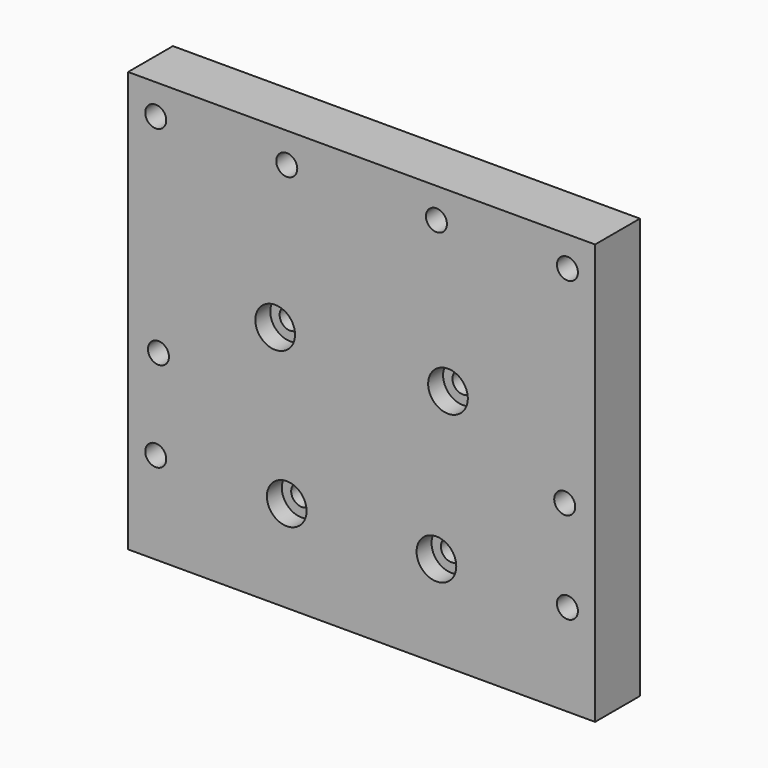
from build123d import *

# Parameters (mm, degrees)
SKETCH_W        = 100
SKETCH_H        = 90
PAD_DEPTH       = 12
SKETCH001_R     = 2.25
POCKET_DEPTH    = 12.001
SKETCH002_R     = 4.25
POCKET001_DEPTH = 4


with BuildPart() as part:
    # Sketch → Pad (new body)
    with BuildSketch(Plane.XZ):
        Rectangle(SKETCH_W, SKETCH_H)
    extrude(amount=PAD_DEPTH)

    # Sketch001 → Pocket (cut, through all)
    with BuildSketch(Plane.XZ.offset(12)):
        with Locations((-44.075, -25.33)):
            Circle(SKETCH001_R)
        with Locations((-43.5, -5.85)):
            Circle(SKETCH001_R)
        with Locations((-16.025, -25.33)):
            Circle(SKETCH001_R)
        with Locations((16.025, -25.33)):
            Circle(SKETCH001_R)
        with Locations((44.075, -25.33)):
            Circle(SKETCH001_R)
        with Locations((43.5, -5.85)):
            Circle(SKETCH001_R)
        with Locations((-44.075, 38.53)):
            Circle(SKETCH001_R)
        with Locations((-16.025, 38.53)):
            Circle(SKETCH001_R)
        with Locations((16.025, 38.53)):
            Circle(SKETCH001_R)
        with Locations((44.075, 38.53)):
            Circle(SKETCH001_R)
        with Locations((-18.5, 7.1)):
            Circle(SKETCH001_R)
        with Locations((18.5, 7.1)):
            Circle(SKETCH001_R)
    extrude(amount=-POCKET_DEPTH, mode=Mode.SUBTRACT)

    # Sketch002 → Pocket001 (cut)
    with BuildSketch(Plane.XZ.offset(12)):
        with Locations((-16.025, -25.33)):
            Circle(SKETCH002_R)
        with Locations((16.025, -25.33)):
            Circle(SKETCH002_R)
        with Locations((-18.5, 7.1)):
            Circle(SKETCH002_R)
        with Locations((18.5, 7.1)):
            Circle(SKETCH002_R)
    extrude(amount=-POCKET001_DEPTH, mode=Mode.SUBTRACT)


solid = part.part
